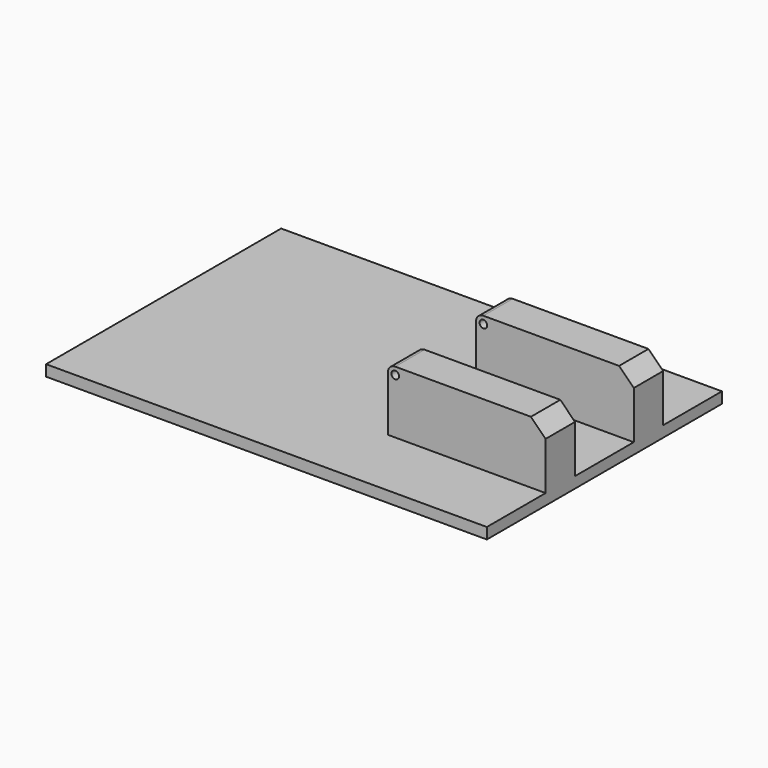
from build123d import *

# Parameters (mm, degrees)
F1_DEPTH = 50.8
F2_START = -12.7
F0_R     = 1.3146247551
F2_DEPTH = 12.7
F3_START = 12.7
F3_DEPTH = 12.7
F4_SIZE  = 5.08


with BuildPart() as f1:
    # F0 (on Front) → F1 (new body, symmetric)
    with BuildSketch(Plane.XZ):
        Polygon((90.658403933, 5.5023488702), (-7.2033622317, 5.5023488702), (-7.2033622317, 1.6923488702), (145.1966377683, 1.6923488702), (145.1966377683, 5.5023488702), align=None)
    extrude(amount=F1_DEPTH, both=True)

    # F0 (on Front) → F2 (join)
    with BuildSketch(Plane.XZ.offset(F2_START)):
        Polygon((90.658403933, 5.5023488702), (-7.2033622317, 5.5023488702), (-7.2033622317, 1.6923488702), (145.1966377683, 1.6923488702), (145.1966377683, 5.5023488702), align=None)
        with BuildLine():
            Line((90.658403933, 24.540095979), (90.658403933, 5.5023488702))
            Line((90.658403933, 5.5023488702), (145.1966377683, 5.5023488702))
            Line((145.1966377683, 5.5023488702), (145.1966377683, 27.080095979))
            Line((145.1966377683, 27.080095979), (93.198403933, 27.080095979))
            ThreePointArc((93.198403933, 27.080095979), (91.4023527088, 26.3361472032), (90.658403933, 24.540095979))
        make_face()
        with Locations((93.198403933, 24.540095979)):
            Circle(F0_R, mode=Mode.SUBTRACT)
    extrude(amount=-F2_DEPTH)

    # F0 (on Front) → F3 (join)
    with BuildSketch(Plane.XZ.offset(F3_START)):
        Polygon((90.658403933, 5.5023488702), (-7.2033622317, 5.5023488702), (-7.2033622317, 1.6923488702), (145.1966377683, 1.6923488702), (145.1966377683, 5.5023488702), align=None)
        with BuildLine():
            Line((90.658403933, 24.540095979), (90.658403933, 5.5023488702))
            Line((90.658403933, 5.5023488702), (145.1966377683, 5.5023488702))
            Line((145.1966377683, 5.5023488702), (145.1966377683, 27.080095979))
            Line((145.1966377683, 27.080095979), (93.198403933, 27.080095979))
            ThreePointArc((93.198403933, 27.080095979), (91.4023527088, 26.3361472032), (90.658403933, 24.540095979))
        make_face()
        with Locations((93.198403933, 24.540095979)):
            Circle(F0_R, mode=Mode.SUBTRACT)
    extrude(amount=F3_DEPTH)

    # F4
    f4_edges = [f1.edges().sort_by_distance(p)[0] for p in [
        (145.196638, 19.05, 27.080096),
        (145.196638, -19.05, 27.080096),
    ]]
    chamfer(f4_edges, length=F4_SIZE)


solid = f1.part
